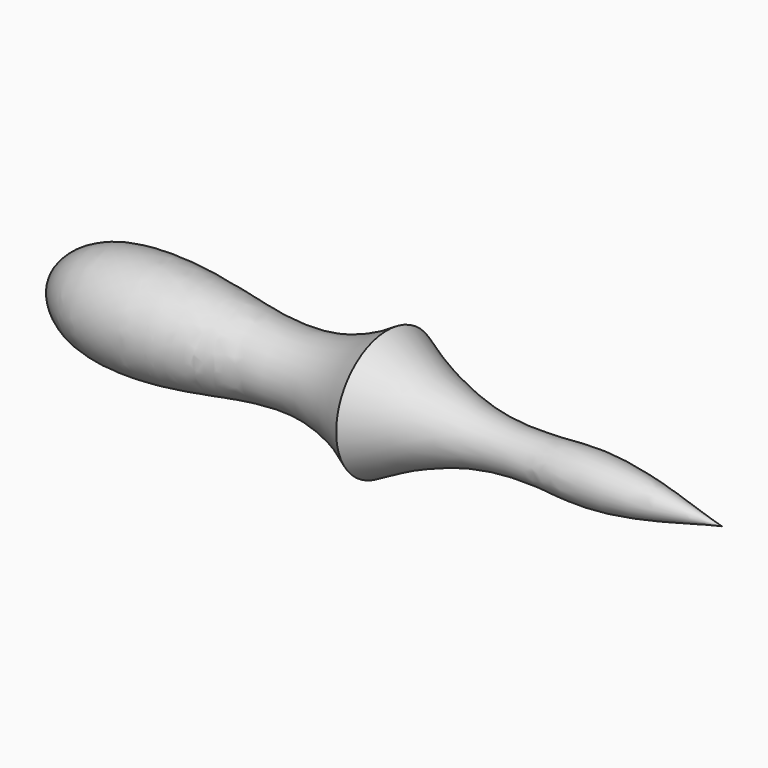
from build123d import *


with BuildPart() as part:
    # Sketch → Revolution (revolve)
    with BuildSketch(Plane.XY):
        with BuildLine():
            Line((-250, 0), (250, 0))
            add(Edge.make_bspline(
                [(-250, 95), (-100, 10), (50, 60), (200, 10), (250, 0)],
                knots=[0, 0, 0, 0, 0.5, 1, 1, 1, 1], degree=3))
            add(Edge.make_bspline(
                [(-750, 0), (-725, 85), (-500, 80), (-350, 30), (-250, 95)],
                knots=[0, 0, 0, 0, 0.5, 1, 1, 1, 1], degree=3))
            Line((-750, 0), (-250, 0))
        make_face()
    revolve(axis=Axis((0, 0, 0), (1, 0, 0)))


solid = part.part
